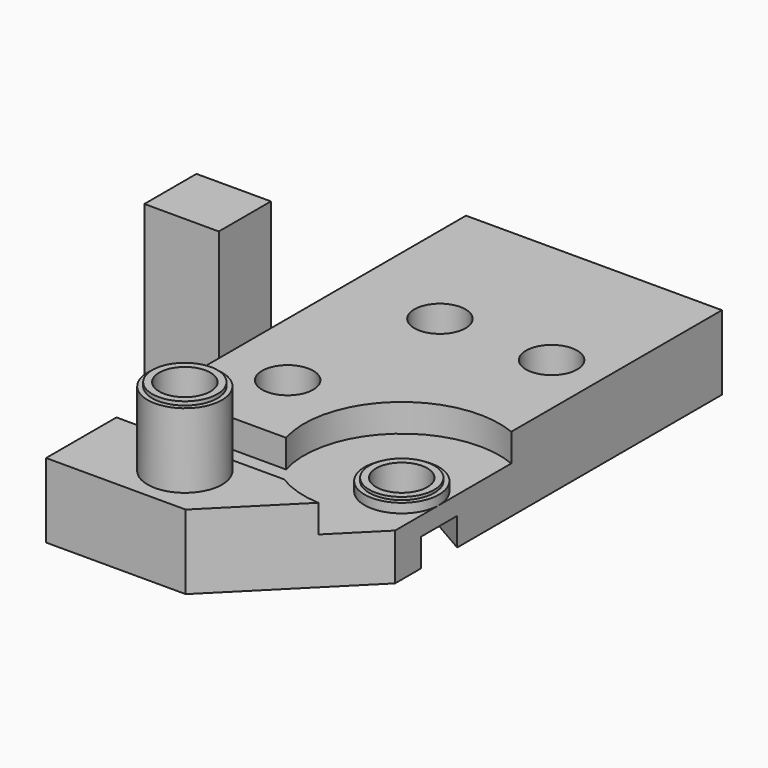
from build123d import *

# Parameters (mm, degrees)
SKETCH007_R             = 2.75
PAD004_DEPTH            = 8
POCKET003_DEPTH         = 3
SKETCH022_R             = 4
SKETCH022_R_2           = 2.75
PAD015_DEPTH            = 1
SKETCH023_R             = 3.5
SKETCH023_R_2           = 2.75
PAD016_DEPTH            = 0.3
SKETCH024_R             = 4
SKETCH024_R_2           = 2.75
PAD017_DEPTH            = 8
SKETCH025_R             = 3.5
SKETCH025_R_2           = 2.75
PAD018_DEPTH            = 0.4
SKETCH026_R             = 6
POCKET005_DEPTH         = 2
POCKET006_DEPTH         = 3
SKETCH028_W             = 7
SKETCH028_H             = 20
PAD019_DEPTH            = 8
BODY001_ROLL_ANGLE      = 180
BODY001_PLACEMENT_ANGLE = -90


with BuildPart() as part:
    # Sketch007 → Pad004 (new body)
    with BuildSketch(Plane.XY):
        Polygon((0, 27.5), (56.4, 27.5), (56.4, 12.5), (43.9, 0), (0, 0), align=None)
        with Locations((16, 17.5)):
            Circle(SKETCH007_R, mode=Mode.SUBTRACT)
        with Locations((16, 5.5)):
            Circle(SKETCH007_R, mode=Mode.SUBTRACT)
        with Locations((32.7, 20.5)):
            Circle(SKETCH007_R, mode=Mode.SUBTRACT)
        with Locations((38, 4)):
            Circle(SKETCH007_R, mode=Mode.SUBTRACT)
        with Locations((50.95, 16.95)):
            Circle(SKETCH007_R, mode=Mode.SUBTRACT)
    extrude(amount=PAD004_DEPTH)

    # Sketch012 (on Face11 of Pad004) → Pocket003 (cut)
    with BuildSketch(Plane(origin=(0, 0, 0), x_dir=(1, 0, 0), z_dir=(0, 0, -1))):
        with BuildLine():
            ThreePointArc((46.95, -9.490674), (31.623381, 4.341986), (40.95, -14.077078))
            Line((40.95, -14.077078), (40.95, -49.490674))
            Line((40.95, -49.490674), (46.95, -49.490674))
            Line((46.95, -9.490674), (46.95, -49.490674))
        make_face()
    extrude(amount=-POCKET003_DEPTH, mode=Mode.SUBTRACT)

    # Sketch022 (on Face2 of Pocket003) → Pad015 (join)
    with BuildSketch(Plane(origin=(0, 0, 3), x_dir=(1, 0, 0), z_dir=(0, 0, -1))):
        with Locations((38, -4)):
            Circle(SKETCH022_R)
        with Locations((38, -4)):
            Circle(SKETCH022_R_2, mode=Mode.SUBTRACT)
    extrude(amount=PAD015_DEPTH)

    # Sketch023 (on Face19 of Pad015) → Pad016 (join)
    with BuildSketch(Plane(origin=(0, 0, 2), x_dir=(1, 0, 0), z_dir=(0, 0, -1))):
        with Locations((38, -4)):
            Circle(SKETCH023_R)
        with Locations((38, -4)):
            Circle(SKETCH023_R_2, mode=Mode.SUBTRACT)
    extrude(amount=PAD016_DEPTH)

    # Sketch024 (on Face18 of Pad016) → Pad017 (join)
    with BuildSketch(Plane(origin=(0, 0, 0), x_dir=(1, 0, 0), z_dir=(0, 0, -1))):
        with Locations((50.95, -16.95)):
            Circle(SKETCH024_R)
        with Locations((50.95, -16.95)):
            Circle(SKETCH024_R_2, mode=Mode.SUBTRACT)
    extrude(amount=PAD017_DEPTH)

    # Sketch025 (on Face23 of Pad017) → Pad018 (join)
    with BuildSketch(Plane(origin=(0, 0, -8), x_dir=(1, 0, 0), z_dir=(0, 0, -1))):
        with Locations((50.95, -16.95)):
            Circle(SKETCH025_R)
        with Locations((50.95, -16.95)):
            Circle(SKETCH025_R_2, mode=Mode.SUBTRACT)
    extrude(amount=PAD018_DEPTH)

    # Sketch026 (on Face6 of Pad018) → Pocket005 (cut)
    with BuildSketch(Plane.XY.offset(8)):
        with Locations((16, 17.5)):
            Circle(SKETCH026_R)
    extrude(amount=-POCKET005_DEPTH, mode=Mode.SUBTRACT)

    # Sketch027 (on Face6 of Pocket005) → Pocket006 (cut)
    with BuildSketch(Plane.XY.offset(8)):
        Polygon((20.75, 5.5), (18.375, 9.613621), (13.625, 9.613621), (11.25, 5.5), (13.625, 1.386379), (18.375, 1.386379), align=None)
        Polygon((37.45, 20.5), (35.075, 24.613621), (30.325, 24.613621), (27.95, 20.5), (30.325, 16.386379), (35.075, 16.386379), align=None)
        Polygon((42.75, 4), (40.375, 8.113621), (35.625, 8.113621), (33.25, 4), (35.625, -0.113621), (40.375, -0.113621), align=None)
        Polygon((55.7, 16.95), (53.325, 21.063621), (48.575, 21.063621), (46.2, 16.95), (48.575, 12.836379), (53.325, 12.836379), align=None)
    extrude(amount=-POCKET006_DEPTH, mode=Mode.SUBTRACT)

    # Sketch028 (on Face12 of Pocket006) → Pad019 (join)
    with BuildSketch(Plane(origin=(0, 27.5, 0), x_dir=(-1, 0, 0), z_dir=(0, 1, 0))):
        with Locations((-29.7, -2)):
            Rectangle(SKETCH028_W, SKETCH028_H)
    extrude(amount=PAD019_DEPTH)


with BuildPart() as part_1:
    # Body001 roll: moved
    add(part.part.rotate(Axis((0, 0, 0), (1, 0, 0)), BODY001_ROLL_ANGLE))


with BuildPart() as part_2:
    # Body001 placement: moved
    add(part_1.part.moved(Location((-37.5, 23, -20))).rotate(Axis((-37.5, 23, -20), (0, 0, 1)), BODY001_PLACEMENT_ANGLE))


solid = part_2.part
